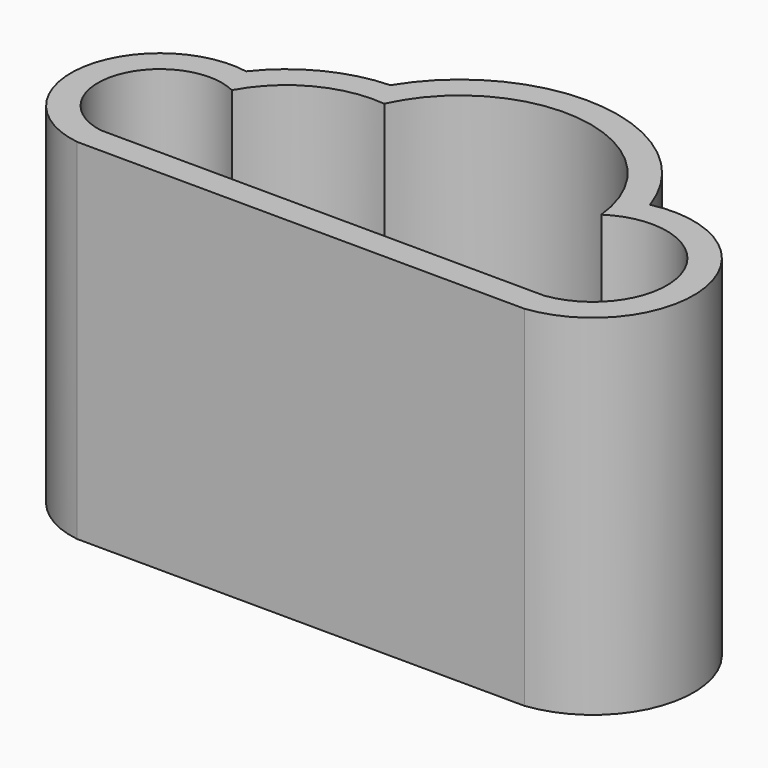
from build123d import *

# Parameters (mm, degrees)
F1_DEPTH = 6.35
F3_DEPTH = 76.2


with BuildPart() as f1:
    # F0 (on Top) → F1 (new body)
    with BuildSketch(Plane.XY):
        with BuildLine():
            ThreePointArc((43.571193, 10.648742), (12.31921, 35.74583), (-23.627532, 18.01501))
            ThreePointArc((-23.627532, 18.01501), (-37.115202, 14.559972), (-47.868234, 5.71538))
            ThreePointArc((-47.868234, 5.71538), (-72.394946, -11.571459), (-54.60564, -35.736207))
            Line((-54.60564, -35.736207), (51.425394, -36.237143))
            ThreePointArc((51.425394, -36.237143), (72.138766, -8.666493), (43.571193, 10.648742))
        make_face()
    extrude(amount=F1_DEPTH)

    # F2 (on face) → F3 (join)
    with BuildSketch(Plane.XY.offset(6.35)):
        with BuildLine():
            ThreePointArc((-47.868234, 5.71538), (-72.394946, -11.571459), (-54.60564, -35.736207))
            Line((-54.60564, -35.736207), (51.425394, -36.237143))
            ThreePointArc((51.425394, -36.237143), (72.138766, -8.666493), (43.571193, 10.648742))
            ThreePointArc((43.571193, 10.648742), (12.31921, 35.74583), (-23.627532, 18.01501))
            ThreePointArc((-23.627532, 18.01501), (-37.115202, 14.559972), (-47.868234, 5.71538))
        make_face()
        with BuildLine():
            ThreePointArc((-45.217477, -1.783325), (-34.574273, 8.725537), (-19.883905, 11.537486))
            ThreePointArc((-19.883905, 11.537486), (13.229808, 29.215446), (39.021839, 1.942761))
            ThreePointArc((39.021839, 1.942761), (64.990646, -6.433999), (51.041183, -29.885257))
            Line((51.041183, -29.885257), (-54.104959, -29.388501))
            ThreePointArc((-54.104959, -29.388501), (-65.61198, -10.450568), (-45.217477, -1.783325))
        make_face(mode=Mode.SUBTRACT)
    extrude(amount=F3_DEPTH)


solid = f1.part
